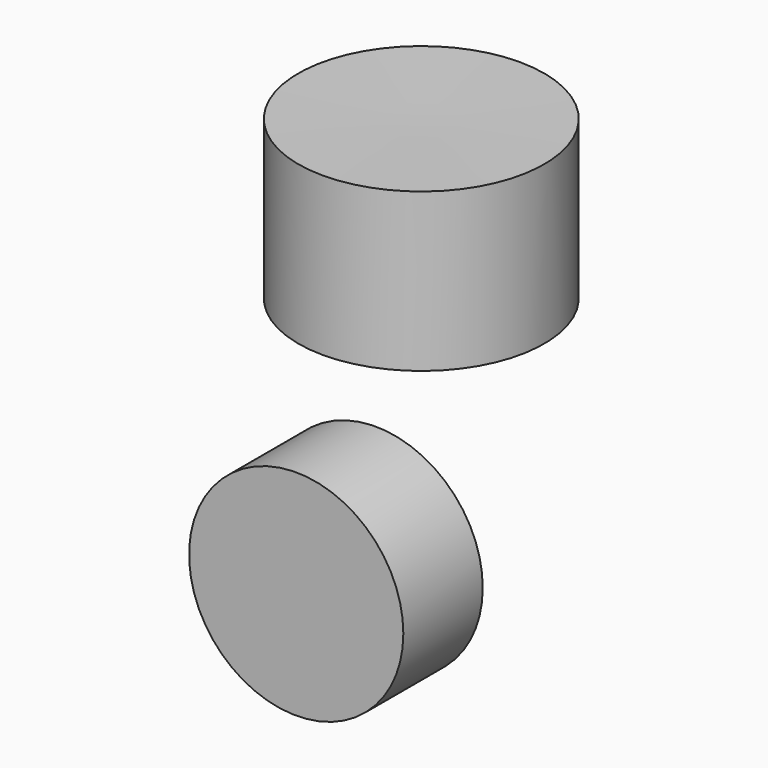
from build123d import *

# Parameters (mm, degrees)
F0_R     = 27.411157
F1_DEPTH = 25.4


with BuildPart() as f1:
    # F0 (on Front) → F1 (new body)
    with BuildSketch(Plane.XZ):
        with Locations((8.552072, -26.042919)):
            Circle(F0_R)
    extrude(amount=F1_DEPTH)


with BuildPart() as f3:
    # F2 (on Right) → F3 (revolve)
    with BuildSketch(Plane.YZ):
        Polygon((56.769576, 17.188229), (56.769576, 57.616882), (25.298171, 57.132706), (25.298171, 17.188229), align=None)
    revolve(axis=Axis((0, 25.298171, 37.160467), (0, 0, 1)))


solid = Compound([f1.part, f3.part])
